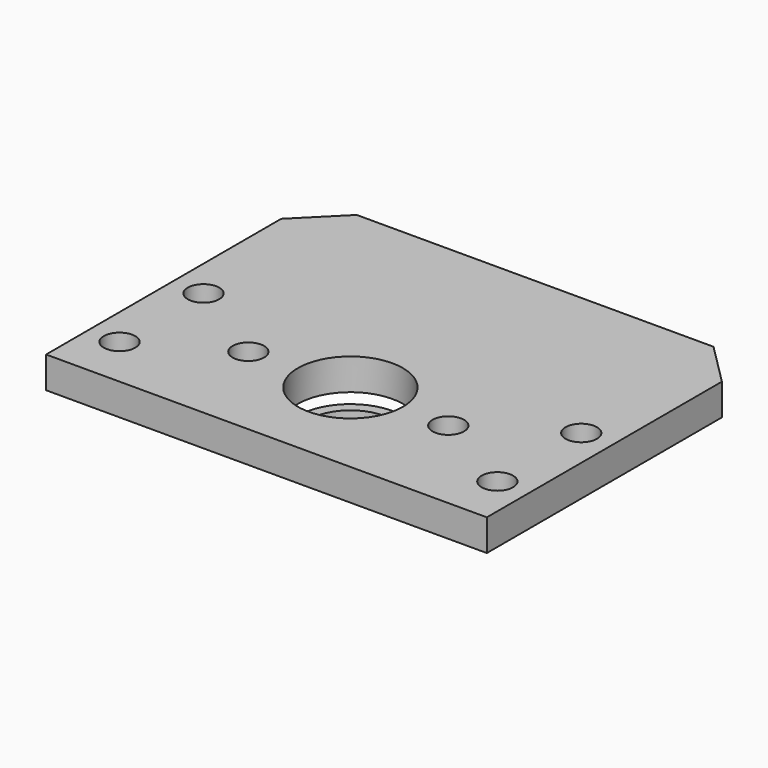
from build123d import *

# Parameters (mm, degrees)
TUBE064_R                   = 5
TUBE064_R_2                 = 4
TUBE064_DEPTH               = 1
CYLINDER1672_R              = 1.5
CYLINDER1672_DEPTH          = 20
CYLINDER1673_R              = 1.5
CYLINDER1673_DEPTH          = 20
COMPOUND822_ROLL_ANGLE      = 90
COMPOUND822_PLACEMENT_ANGLE = 90
CYLINDER1655_R              = 1.5
CYLINDER1655_DEPTH          = 60
CYLINDER1656_R              = 1.5
CYLINDER1656_DEPTH          = 60
CYLINDER1657_R              = 1.5
CYLINDER1657_DEPTH          = 60
CYLINDER1654_R              = 1.5
CYLINDER1654_DEPTH          = 60
CYLINDER1620_R              = 5
CYLINDER1620_DEPTH          = 4
BOX645_W                    = 42
BOX645_H                    = 32
BOX645_DEPTH                = 3
CHAMFER047_SIZE             = 4
CHAMFER048_SIZE             = 2


with BuildPart() as tube064:
    # Tube064 → Tube064 (new body)
    with BuildSketch(Plane(origin=(0, 90, -54), x_dir=(1, 0, 0), z_dir=(0, 0, 1))):
        Circle(TUBE064_R)
        Circle(TUBE064_R_2, mode=Mode.SUBTRACT)
    extrude(amount=TUBE064_DEPTH)


with BuildPart() as obj1:
    # Cylinder1672 → Cylinder1672 (new body)
    with BuildSketch(Plane(origin=(15.75, 114, 58.525), x_dir=(-1, 0, 0), z_dir=(0, 1, 0))):
        Circle(CYLINDER1672_R)
    extrude(amount=CYLINDER1672_DEPTH)


with BuildPart() as compound823:
    # Cylinder1673 → Cylinder1673 (new body)
    with BuildSketch(Plane(origin=(15.75, 114, 39.475), x_dir=(-1, 0, 0), z_dir=(0, 1, 0))):
        Circle(CYLINDER1673_R)
    extrude(amount=CYLINDER1673_DEPTH)

    # Compound822: union obj1
    add(obj1.part)


with BuildPart() as compound823_1:
    # Compound822 roll: moved
    add(compound823.part.rotate(Axis((0, 0, 0), (1, 0, 0)), COMPOUND822_ROLL_ANGLE))


with BuildPart() as compound823_2:
    # Compound822 placement: moved
    add(compound823_1.part.moved(Location((-49, 0, -96))).rotate(Axis((-49, 0, -96), (0, 0, 1)), COMPOUND822_PLACEMENT_ANGLE))


with BuildPart() as compound823_3:
    # Compound823 placement: moved
    add(compound823_2.part.moved(Location((0, 74, -80))))


with BuildPart() as obj2:
    # Cylinder1655 → Cylinder1655 (new body)
    with BuildSketch(Plane(origin=(18, 85, -57), x_dir=(1, 0, 0), z_dir=(0, 0, 1))):
        Circle(CYLINDER1655_R)
    extrude(amount=CYLINDER1655_DEPTH)


with BuildPart() as obj3:
    # Cylinder1656 → Cylinder1656 (new body)
    with BuildSketch(Plane(origin=(-18, 85, -57), x_dir=(1, 0, 0), z_dir=(0, 0, 1))):
        Circle(CYLINDER1656_R)
    extrude(amount=CYLINDER1656_DEPTH)


with BuildPart() as obj4:
    # Cylinder1657 → Cylinder1657 (new body)
    with BuildSketch(Plane(origin=(-18, 95, -57), x_dir=(1, 0, 0), z_dir=(0, 0, 1))):
        Circle(CYLINDER1657_R)
    extrude(amount=CYLINDER1657_DEPTH)


with BuildPart() as compound814:
    # Cylinder1654 → Cylinder1654 (new body)
    with BuildSketch(Plane(origin=(18, 95, -57), x_dir=(1, 0, 0), z_dir=(0, 0, 1))):
        Circle(CYLINDER1654_R)
    extrude(amount=CYLINDER1654_DEPTH)

    # Compound814: union obj2, obj3, obj4
    add(obj2.part)
    add(obj3.part)
    add(obj4.part)


with BuildPart() as obj5:
    # Cylinder1620 → Cylinder1620 (new body)
    with BuildSketch(Plane(origin=(0, 90, -53), x_dir=(1, 0, 0), z_dir=(0, 0, 1))):
        Circle(CYLINDER1620_R)
    extrude(amount=CYLINDER1620_DEPTH)


with BuildPart() as chamfer048:
    # Box645 → Box645 (new body)
    with BuildSketch(Plane(origin=(-21, 80, -52), x_dir=(1, 0, 0), z_dir=(0, 0, 1))):
        with Locations((21, 16)):
            Rectangle(BOX645_W, BOX645_H)
    extrude(amount=BOX645_DEPTH)

    # Cut309: cut obj5
    add(obj5.part, mode=Mode.SUBTRACT)

    # Cut327: cut Compound814
    add(compound814.part, mode=Mode.SUBTRACT)

    # Cut334: cut Compound823
    add(compound823_3.part, mode=Mode.SUBTRACT)

    # Compound826: union Tube064
    add(tube064.part)

    # Chamfer047
    chamfer047_edges = [chamfer048.edges().sort_by_distance(p)[0] for p in [
        (-21, 112, -50.5),
        (21, 112, -50.5),
    ]]
    chamfer(chamfer047_edges, length=CHAMFER047_SIZE)

    # Chamfer048
    chamfer048_edges = [chamfer048.edges().sort_by_distance(p)[0] for p in [
        (0, 112, -52),
    ]]
    chamfer(chamfer048_edges, length=CHAMFER048_SIZE)


solid = chamfer048.part
